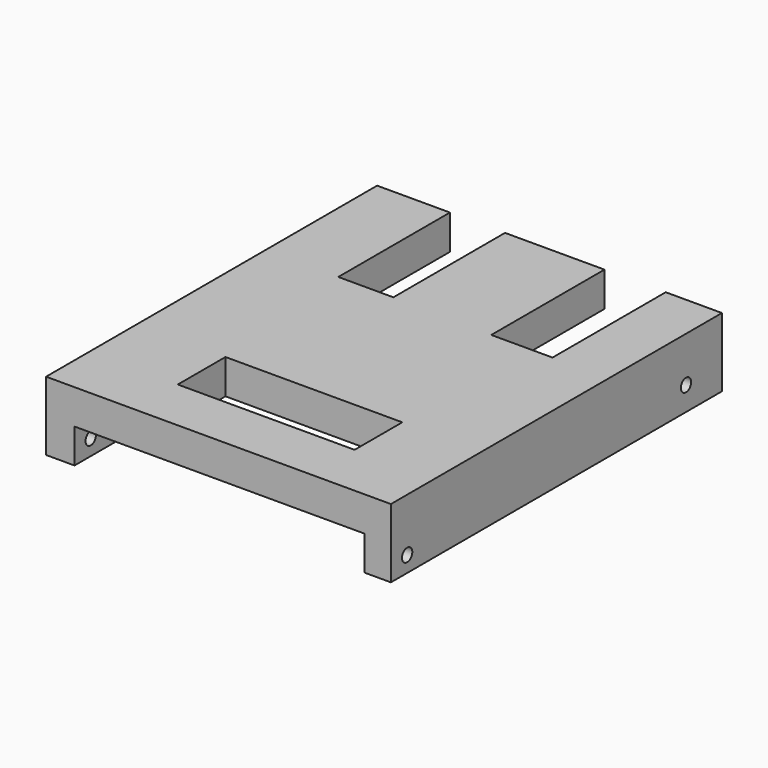
from build123d import *

# Parameters (mm, degrees)
F0_W      = 127
F0_H      = 25.4
F1_DEPTH  = 152.4
F2_W      = 106.8398617208
F2_H      = 12.6475254074
F3_DEPTH  = 152.401
F4_R      = 2.38125
F5_DEPTH  = 127.001
F6_R      = 2.38125
F7_DEPTH  = 127.001
F8_W      = 22.5498136133
F8_H      = 52.1139763296
F9_DEPTH  = 12.7534745926
F10_W     = 20.2880082652
F10_H     = 51.4018163085
F11_DEPTH = 12.7534745926
F12_W     = 65.1156418025
F12_H     = 21.9442248344
F13_DEPTH = 12.7534745926


with BuildPart() as f1:
    # F0 (on Front) → F1 (new body)
    with BuildSketch(Plane.XZ):
        with Locations((-5.044566528, 12.7)):
            Rectangle(F0_W, F0_H)
    extrude(amount=F1_DEPTH)

    # F2 (on face) → F3 (cut, through all)
    with BuildSketch(Plane.XZ.offset(152.4)):
        with Locations((-4.6506356448, 6.3237627037)):
            Rectangle(F2_W, F2_H)
    extrude(amount=-F3_DEPTH, mode=Mode.SUBTRACT)

    # F4 (on face) → F5 (cut, through all)
    with BuildSketch(Plane.YZ.offset(58.455433472)):
        with Locations((-16.5433734655, 8.7655037642)):
            Circle(F4_R)
    extrude(amount=-F5_DEPTH, mode=Mode.SUBTRACT)

    # F6 (on face) → F7 (cut, through all)
    with BuildSketch(Plane.YZ.offset(58.455433472)):
        with Locations((-144.9289917946, 5.8498084545)):
            Circle(F6_R)
    extrude(amount=-F7_DEPTH, mode=Mode.SUBTRACT)

    # F8 (on face) → F9 (cut, through all)
    with BuildSketch(Plane(origin=(0, 0, 12.6475254074), x_dir=(1, 0, 0), z_dir=(0, 0, -1))):
        with Locations((26.4765219763, 26.0569881648)):
            Rectangle(F8_W, F8_H)
    extrude(amount=-F9_DEPTH, mode=Mode.SUBTRACT)

    # F10 (on face) → F11 (cut, through all)
    with BuildSketch(Plane(origin=(0, 0, 12.6475254074), x_dir=(1, 0, 0), z_dir=(0, 0, -1))):
        with Locations((-31.5784798004, 25.7009081542)):
            Rectangle(F10_W, F10_H)
    extrude(amount=-F11_DEPTH, mode=Mode.SUBTRACT)

    # F12 (on face) → F13 (cut, through all)
    with BuildSketch(Plane(origin=(0, 0, 12.6475254074), x_dir=(1, 0, 0), z_dir=(0, 0, -1))):
        with Locations((-3.3583734185, 121.5704679489)):
            Rectangle(F12_W, F12_H)
    extrude(amount=-F13_DEPTH, mode=Mode.SUBTRACT)


solid = f1.part
